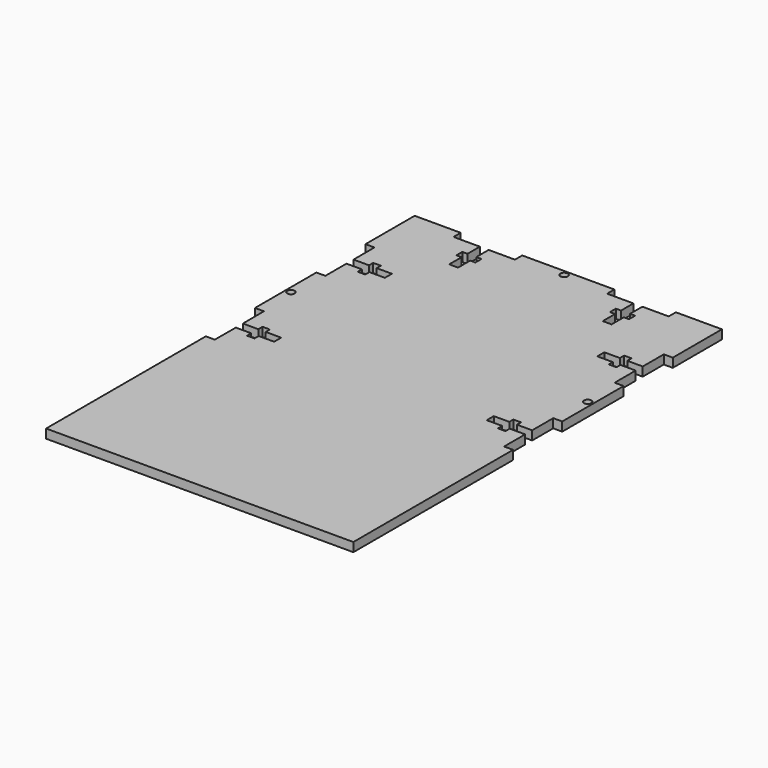
from build123d import *

# Parameters (mm, degrees)
F0_R     = 1.23227
F0_R_2   = 1.246014
F1_DEPTH = 2.9718


with BuildPart() as f1:
    # F0 (on Top) → F1 (new body)
    with BuildSketch(Plane.XY):
        Polygon((-50.820782, -76.199999), (50.822706, -76.199999), (50.822706, -10.159999), (47.848982, -10.159999), (47.848982, -4.600307), (47.848982, -1.456227), (42.741386, -1.456227), (42.741967, -3.213268), (40.278167, -3.213268), (40.278167, -1.4605), (35.149562, -1.4605), (35.149562, 0), (35.149562, 1.4605), (40.278167, 1.4605), (40.278167, 3.136732), (42.818167, 3.136732), (42.818167, 1.4605), (47.848982, 1.456228), (47.848982, 10.160001), (50.82015, 10.160001), (50.82015, 35.559999), (47.848982, 35.559999), (47.848982, 44.263772), (42.817586, 44.263772), (42.817586, 42.58754), (40.277586, 42.58754), (40.277586, 44.263772), (35.148982, 44.263772), (35.149562, 47.176227), (40.277586, 47.176227), (40.277586, 48.928995), (42.741386, 48.928995), (42.741386, 47.176227), (47.848982, 47.176227), (47.848982, 55.879999), (50.820782, 55.879999), (50.820782, 76.199999), (35.580782, 76.199999), (35.580782, 73.232112), (26.879027, 73.241051), (26.879027, 68.122951), (28.561365, 68.122951), (28.561365, 65.582951), (26.844848, 65.582951), (26.844848, 60.532112), (25.384348, 60.532112), (23.923848, 60.532112), (23.923848, 65.641274), (22.209348, 65.641274), (22.209348, 68.105074), (23.923848, 68.105074), (23.923848, 73.232112), (15.218057, 73.232112), (15.218057, 76.232044), (-0.021943, 76.232044), (-15.261943, 76.232044), (-15.261943, 73.232112), (-23.967733, 73.232112), (-23.967733, 68.122951), (-22.24267, 68.122951), (-22.24267, 65.582951), (-23.95717, 65.582951), (-23.95717, 60.560244), (-25.41767, 60.560244), (-26.87817, 60.560244), (-26.87817, 65.659151), (-28.594688, 65.659151), (-28.594688, 68.122951), (-26.880188, 68.122951), (-26.880188, 73.241051), (-35.581943, 73.232112), (-35.582706, 76.203912), (-50.822706, 76.199999), (-50.822706, 55.879999), (-47.850906, 55.879999), (-47.850906, 47.209491), (-42.726061, 47.209491), (-42.726061, 48.940623), (-40.186061, 48.940623), (-40.186061, 47.209491), (-35.150906, 47.209491), (-35.150906, 45.757536), (-35.150906, 44.297036), (-40.262261, 44.297036), (-40.262261, 42.565904), (-42.726061, 42.565904), (-42.726061, 44.297036), (-47.850906, 44.297036), (-47.850906, 35.559999), (-50.822706, 35.559999), (-50.822706, 10.159999), (-47.850906, 10.159999), (-47.815394, 1.427236), (-42.724717, 1.427236), (-42.724717, 3.158368), (-40.260917, 3.158368), (-40.260917, 1.427236), (-35.149562, 1.427236), (-35.149562, -0.033264), (-35.149562, -1.493764), (-40.260917, -1.493764), (-40.260917, -3.224896), (-42.724717, -3.224896), (-42.724717, -1.493764), (-47.815546, -1.493764), (-47.850906, -10.159999), (-50.820782, -10.159999), align=None)
        with Locations((-49.082806, 22.89018)):
            Circle(F0_R, mode=Mode.SUBTRACT)
        with Locations((-0.010971, 74.478078)):
            Circle(F0_R_2, mode=Mode.SUBTRACT)
        with Locations((49.082806, 22.89018)):
            Circle(F0_R, mode=Mode.SUBTRACT)
    extrude(amount=F1_DEPTH)


solid = f1.part
